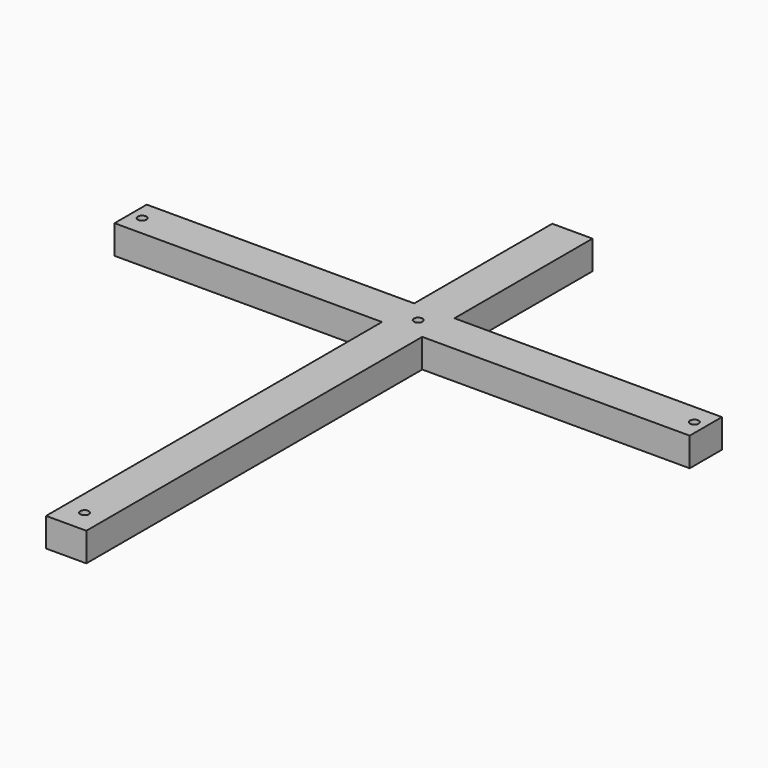
from build123d import *

# Parameters (mm, degrees)
F0_R     = 0.1905
F1_DEPTH = 1.27


with BuildPart() as f1:
    # F0 (on Top) → F1 (new body)
    with BuildSketch(Plane.XY):
        Polygon((-0.889, 0.889), (-12.7, 0.889), (-12.7, -0.889), (-0.889, -0.889), (-0.889, -19.431), (0.889, -19.431), (0.889, -0.889), (12.7, -0.889), (12.7, 0.889), (0.889, 0.889), (0.889, 8.509), (-0.889, 8.509), align=None)
        with Locations((0, -18.415)):
            Circle(F0_R, mode=Mode.SUBTRACT)
        with Locations((-12.192, 0)):
            Circle(F0_R, mode=Mode.SUBTRACT)
        Circle(F0_R, mode=Mode.SUBTRACT)
        with Locations((12.192, 0)):
            Circle(F0_R, mode=Mode.SUBTRACT)
    extrude(amount=F1_DEPTH)


solid = f1.part
